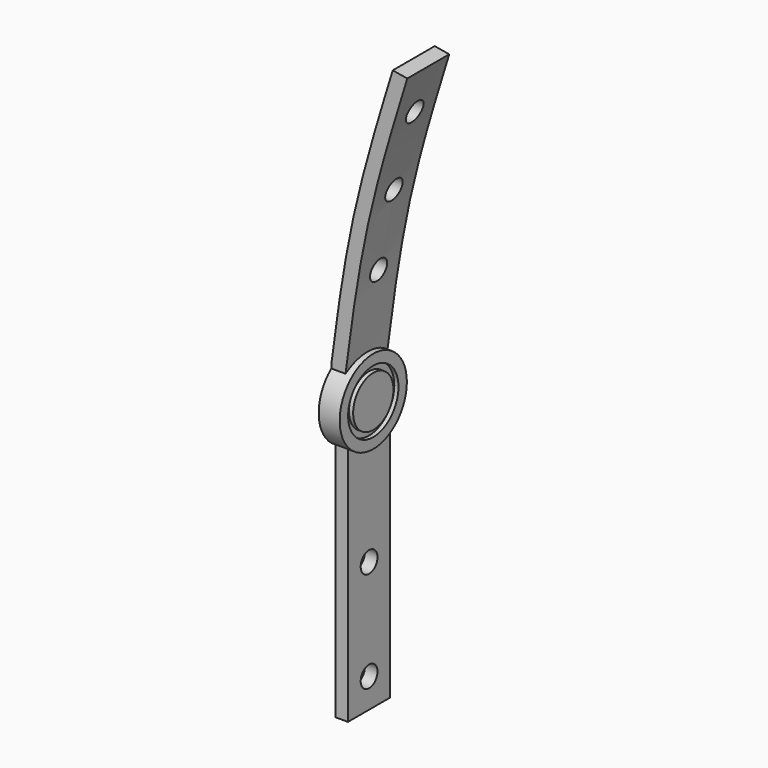
from build123d import *

# Parameters (mm, degrees)
F0_R      = 25.4
F1_DEPTH  = 12.7
F2_W      = 31.75
F2_H      = 165.1
F4_DEPTH  = 10.16
F3_R      = 19.05
F3_R_2    = 15.24
F5_DEPTH  = 2.54
F6_DEPTH  = 2.54
F12_W     = 83.7285071611
F12_H     = 107.8942138702
F13_DEPTH = 38.1
F7_R      = 6.35
F14_DEPTH = 121.158


with BuildPart() as f1:
    # F0 (on Right) → F1 (new body)
    with BuildSketch(Plane.YZ):
        Circle(F0_R)
    extrude(amount=F1_DEPTH)

    # F2 (on Right) → F4 (join)
    with BuildSketch(Plane.YZ):
        with Locations((-0.0880607814, -82.55)):
            Rectangle(F2_W, F2_H)
    extrude(amount=F4_DEPTH)

    # F3 (on face) → F5 (cut)
    with BuildSketch(Plane.YZ.offset(12.7)):
        Circle(F3_R)
        Circle(F3_R_2, mode=Mode.SUBTRACT)
    extrude(amount=-F5_DEPTH, mode=Mode.SUBTRACT)

    # F2 (on Right) → F6 (cut)
    with BuildSketch(Plane.YZ):
        with Locations((-0.0880607814, -82.55)):
            Rectangle(F2_W, F2_H)
    extrude(amount=F6_DEPTH, mode=Mode.SUBTRACT)

    # F11: sweep along a path in F8
    with BuildLine(Plane.XZ) as f11_path:
        add(Plane.XZ * Edge.make_bspline(
            [(0, 0), (4.2525229258, 34.4403836275), (12.5385790489, 101.5475942458), (30.9518480108, 161.2471884086), (39.91516307, 190.3080940247)],
            knots=[0, 0, 0, 0, 0.5132143522, 1, 1, 1, 1], degree=3))
    # F10 (on offset) → F11 (sweep)
    with BuildSketch(Plane.XY.offset(22.098)):
        Polygon((0, 15.875), (0, 0), (0, -15.875), (8.89, -15.875), (8.89, 15.875), align=None)
    sweep(path=f11_path.line)

    # F12 (on Front) → F13 (cut, symmetric)
    with BuildSketch(Plane.XZ):
        with Locations((-41.8642535806, 22.8400593624)):
            Rectangle(F12_W, F12_H)
    extrude(amount=F13_DEPTH, both=True, mode=Mode.SUBTRACT)

    # F7 (on Right) → F14 (cut)
    with BuildSketch(Plane.YZ):
        with Locations((0, 162.56)):
            Circle(F7_R)
        with Locations((0, 116.84)):
            Circle(F7_R)
        with Locations((0, 71.12)):
            Circle(F7_R)
        with Locations((0, -86.36)):
            Circle(F7_R)
        with Locations((0, -147.32)):
            Circle(F7_R)
    extrude(amount=F14_DEPTH, mode=Mode.SUBTRACT)


solid = f1.part
